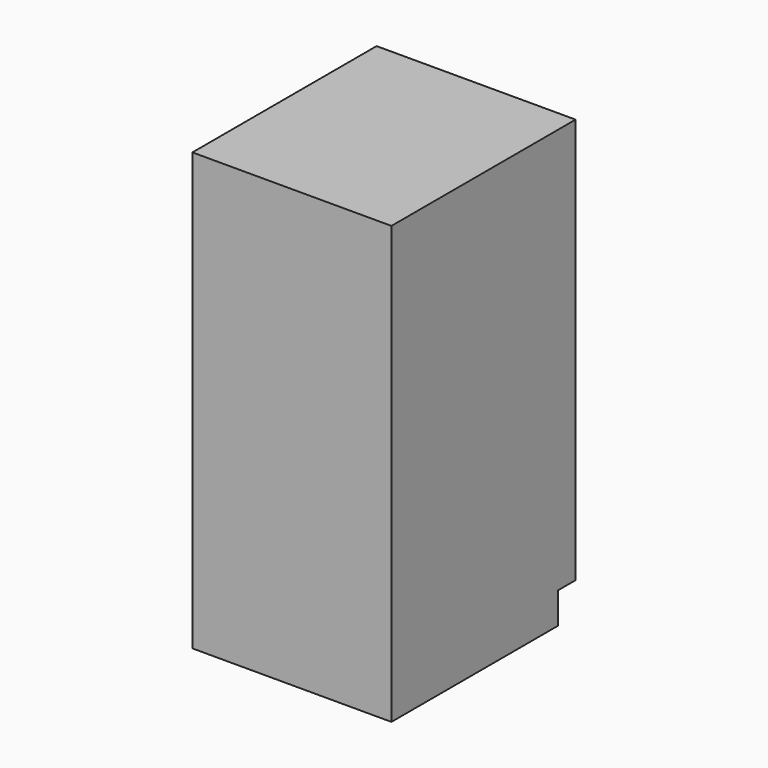
from build123d import *

# Parameters (mm, degrees)
BOX006_W          = 1.75
BOX006_H          = 2.5
BOX006_DEPTH      = 1.75
BOX005_W          = 1.75
BOX005_H          = 2.5
BOX005_DEPTH      = 1.75
BOX004_W          = 15.95
BOX004_H          = 35
BOX004_DEPTH      = 18.45
CUT060_ROLL_ANGLE = 90


with BuildPart() as krychle005:
    # Box006 → Box006 (new body)
    with BuildSketch(Plane(origin=(14.2, 0, 0), x_dir=(1, 0, 0), z_dir=(0, 0, 1))):
        with Locations((0.875, 1.25)):
            Rectangle(BOX006_W, BOX006_H)
    extrude(amount=BOX006_DEPTH)


with BuildPart() as krychle004:
    # Box005 → Box005 (new body)
    with BuildSketch(Plane.XY):
        with Locations((0.875, 1.25)):
            Rectangle(BOX005_W, BOX005_H)
    extrude(amount=BOX005_DEPTH)


with BuildPart() as obj1:
    # Box004 → Box004 (new body)
    with BuildSketch(Plane.XY):
        with Locations((7.975, 17.5)):
            Rectangle(BOX004_W, BOX004_H)
    extrude(amount=BOX004_DEPTH)

    # Cut059: cut Krychle004
    add(krychle004.part, mode=Mode.SUBTRACT)

    # Cut060: cut Krychle005
    add(krychle005.part, mode=Mode.SUBTRACT)


with BuildPart() as obj1_1:
    # Cut060 roll: moved
    add(obj1.part.rotate(Axis((0, 0, 0), (1, 0, 0)), CUT060_ROLL_ANGLE))


with BuildPart() as obj1_2:
    # Cut060 placement: moved
    add(obj1_1.part.moved(Location((24, 0, 0))))


solid = obj1_2.part
